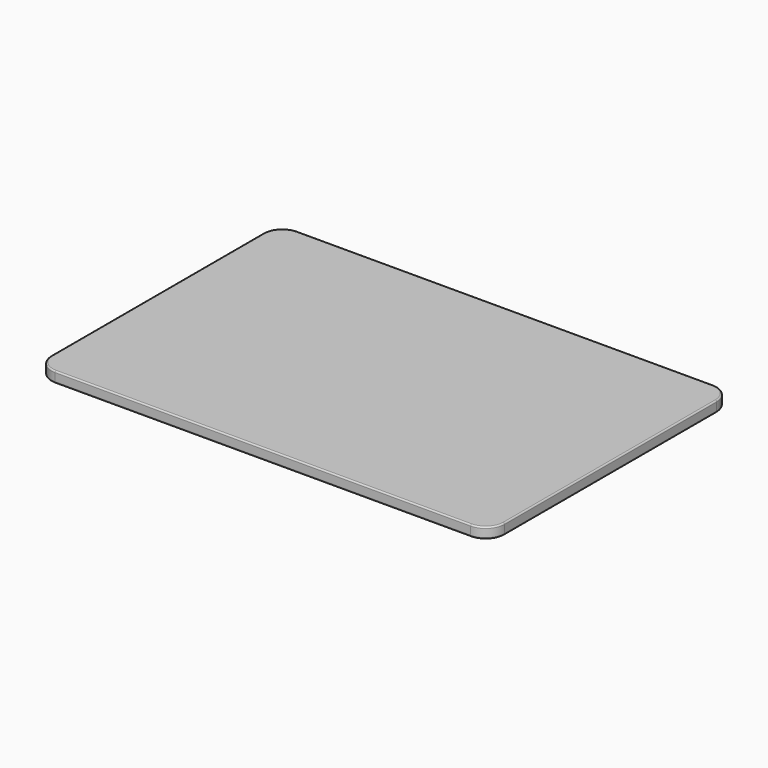
from build123d import *

# Parameters (mm, degrees)
F1_DEPTH = 0.575
F2_R     = 0.15


with BuildPart() as f1:
    # F0 (on Top) → F1 (new body, symmetric)
    with BuildSketch(Plane.XY):
        with BuildLine():
            Line((-22.1, -16.1), (22.1, -16.1))
            ThreePointArc((22.1, -16.1), (23.5142135624, -15.5142135624), (24.1, -14.1))
            Line((24.1, -14.1), (24.1, 14.1))
            ThreePointArc((24.1, 14.1), (23.5142135624, 15.5142135624), (22.1, 16.1))
            Line((22.1, 16.1), (-22.1, 16.1))
            ThreePointArc((-22.1, 16.1), (-23.5142135624, 15.5142135624), (-24.1, 14.1))
            Line((-24.1, 14.1), (-24.1, -14.1))
            ThreePointArc((-24.1, -14.1), (-23.5142135624, -15.5142135624), (-22.1, -16.1))
        make_face()
    extrude(amount=F1_DEPTH, both=True)

    # F2
    f2_edges = [f1.edges().sort_by_distance(p)[0] for p in [
        (0, -16.1, -0.575),
        (23.514214, -15.514214, -0.575),
        (24.1, 0, -0.575),
        (23.514214, 15.514214, -0.575),
        (0, 16.1, -0.575),
        (-23.514214, 15.514214, -0.575),
        (-24.1, 0, -0.575),
        (-23.514214, -15.514214, -0.575),
        (0, -16.1, 0.575),
        (23.514214, -15.514214, 0.575),
        (24.1, 0, 0.575),
        (23.514214, 15.514214, 0.575),
        (0, 16.1, 0.575),
        (-23.514214, 15.514214, 0.575),
        (-24.1, 0, 0.575),
        (-23.514214, -15.514214, 0.575),
    ]]
    fillet(f2_edges, radius=F2_R)


solid = f1.part
